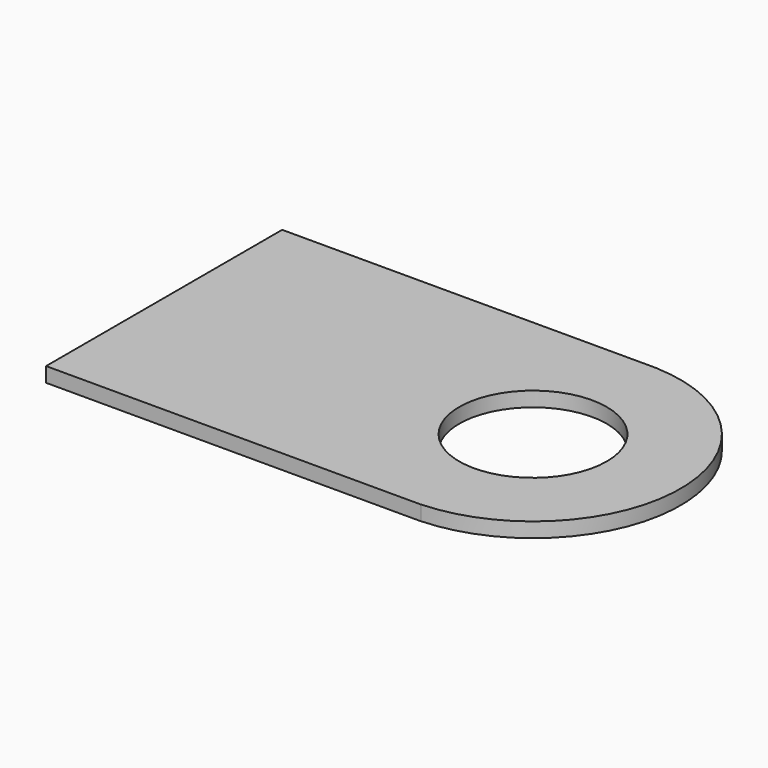
from build123d import *

# Parameters (mm, degrees)
CYLINDER053_R     = 0.5
CYLINDER053_DEPTH = 0.1
BOX020_W          = 2.54
BOX020_H          = 2
BOX020_DEPTH      = 0.1
CYLINDER052_R     = 0.5
CYLINDER052_DEPTH = 0.1
CYLINDER051_R     = 1
CYLINDER051_DEPTH = 0.1


with BuildPart() as cylinder053:
    # Cylinder053 → Cylinder053 (new body)
    with BuildSketch(Plane.XY.offset(1)):
        Circle(CYLINDER053_R)
    extrude(amount=CYLINDER053_DEPTH)


with BuildPart() as cut036:
    # Box020 → Box020 (new body)
    with BuildSketch(Plane(origin=(-2.5, -1, 1), x_dir=(1, 0, 0), z_dir=(0, 0, 1))):
        with Locations((1.27, 1)):
            Rectangle(BOX020_W, BOX020_H)
    extrude(amount=BOX020_DEPTH)

    # Cut036: cut Cylinder053
    add(cylinder053.part, mode=Mode.SUBTRACT)


with BuildPart() as cylinder052:
    # Cylinder052 → Cylinder052 (new body)
    with BuildSketch(Plane.XY.offset(1)):
        Circle(CYLINDER052_R)
    extrude(amount=CYLINDER052_DEPTH)


with BuildPart() as fusion017:
    # Cylinder051 → Cylinder051 (new body)
    with BuildSketch(Plane.XY.offset(1)):
        Circle(CYLINDER051_R)
    extrude(amount=CYLINDER051_DEPTH)

    # Cut035: cut Cylinder052
    add(cylinder052.part, mode=Mode.SUBTRACT)

    # Fusion017: union Cut036
    add(cut036.part)


with BuildPart() as fusion017_1:
    # Fusion017 placement: moved
    add(fusion017.part.moved(Location((0, -43.18, 5.5))))


solid = fusion017_1.part
